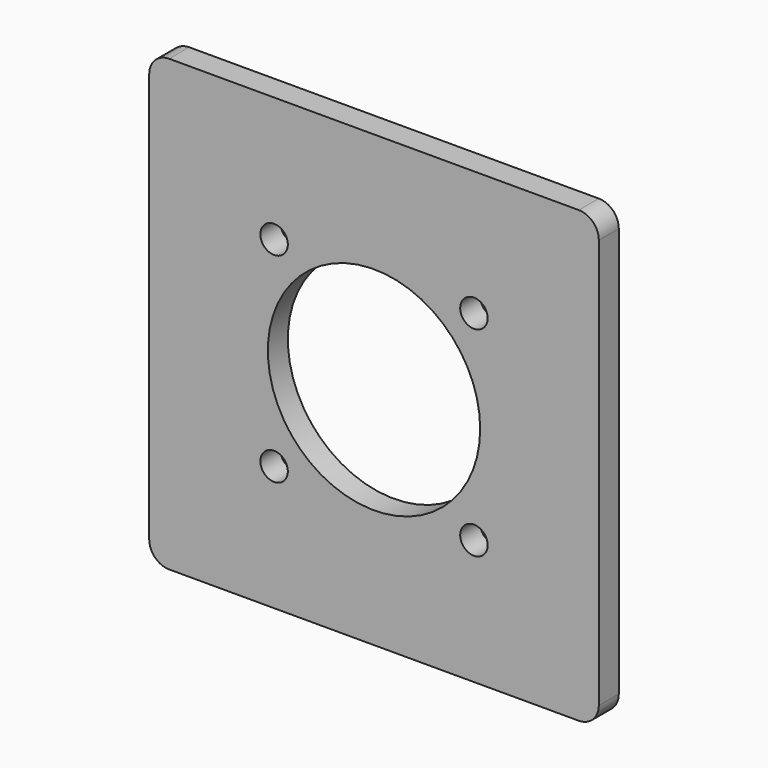
from build123d import *

# Parameters (mm, degrees)
F0_R     = 3.4925
F0_R_2   = 26.9875
F1_DEPTH = 6.35


with BuildPart() as f1:
    # F0 (on Front) → F1 (new body)
    with BuildSketch(Plane.XZ):
        with BuildLine():
            ThreePointArc((0, 5.08), (1.487898, 1.487898), (5.08, 0))
            Line((5.08, 0), (109.22, 0))
            ThreePointArc((109.22, 0), (112.812102, 1.487898), (114.3, 5.08))
            Line((114.3, 5.08), (114.3, 109.22))
            ThreePointArc((114.3, 109.22), (112.812102, 112.812102), (109.22, 114.3))
            Line((109.22, 114.3), (5.08, 114.3))
            ThreePointArc((5.08, 114.3), (1.487898, 112.812102), (0, 109.22))
            Line((0, 109.22), (0, 5.08))
        make_face()
        with Locations((31.75, 31.75)):
            Circle(F0_R, mode=Mode.SUBTRACT)
        with Locations((82.55, 31.75)):
            Circle(F0_R, mode=Mode.SUBTRACT)
        with Locations((57.15, 57.15)):
            Circle(F0_R_2, mode=Mode.SUBTRACT)
        with Locations((31.75, 82.55)):
            Circle(F0_R, mode=Mode.SUBTRACT)
        with Locations((82.55, 82.55)):
            Circle(F0_R, mode=Mode.SUBTRACT)
    extrude(amount=F1_DEPTH)


solid = f1.part
